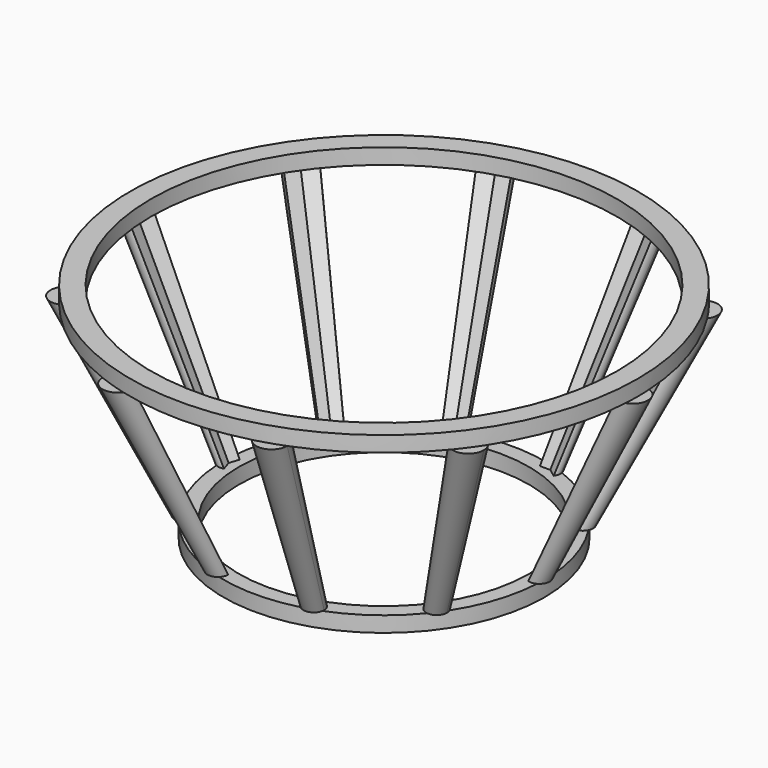
from build123d import *

# Parameters (mm, degrees)
F0_R     = 45
F1_DEPTH = 3
F0_R_2   = 49
F3_DEPTH = 3
F5_R     = 28
F6_DEPTH = 3
F5_R_2   = 31
F8_DEPTH = 3


with BuildPart() as f1:
    # F0 (on Top) → F1 (new body)
    with BuildSketch(Plane.XY):
        Polygon((38.83281573, -28.21369211), (48, 0), (38.83281573, 28.21369211), (14.83281573, 45.6507127822), (-14.83281573, 45.6507127822), (-38.83281573, 28.21369211), (-48, 0), (-38.83281573, -28.21369211), (-14.83281573, -45.6507127822), (14.83281573, -45.6507127822), align=None)
        Circle(F0_R, mode=Mode.SUBTRACT)
    extrude(amount=-F1_DEPTH)

    # F0 (on Top) → F3 (join)
    with BuildSketch(Plane.XY):
        Circle(F0_R_2)
        Polygon((38.83281573, 28.21369211), (48, 0), (38.83281573, -28.21369211), (14.83281573, -45.6507127822), (-14.83281573, -45.6507127822), (-38.83281573, -28.21369211), (-48, 0), (-38.83281573, 28.21369211), (-14.83281573, 45.6507127822), (14.83281573, 45.6507127822), align=None, mode=Mode.SUBTRACT)
    extrude(amount=-F3_DEPTH)



with BuildPart() as f6:
    # F5 (on offset) → F6 (new body)
    with BuildSketch(Plane.XY.offset(-40)):
        Polygon((24.2705098312, -17.6335575688), (30, 0), (24.2705098312, 17.6335575688), (9.2705098312, 28.5316954889), (-9.2705098312, 28.5316954889), (-24.2705098312, 17.6335575688), (-30, 0), (-24.2705098312, -17.6335575688), (-9.2705098312, -28.5316954889), (9.2705098312, -28.5316954889), align=None)
        Circle(F5_R, mode=Mode.SUBTRACT)
    extrude(amount=-F6_DEPTH)

    # F5 (on offset) → F8 (join)
    with BuildSketch(Plane.XY.offset(-40)):
        Circle(F5_R_2)
        Polygon((24.2705098312, 17.6335575688), (30, 0), (24.2705098312, -17.6335575688), (9.2705098312, -28.5316954889), (-9.2705098312, -28.5316954889), (-24.2705098312, -17.6335575688), (-30, 0), (-24.2705098312, 17.6335575688), (-9.2705098312, 28.5316954889), (9.2705098312, 28.5316954889), align=None, mode=Mode.SUBTRACT)
    extrude(amount=-F8_DEPTH)


with BuildPart() as f1_1:
    add(f1.part)

    add(f6.part)  # F9 merges F6
    # F2 (on face) → F9 section 0
    with BuildSketch(Plane(origin=(0, 0, -3), x_dir=(1, 0, 0), z_dir=(0, 0, -1))):
        with BuildLine():
            ThreePointArc((-47.0729490169, 2.8531695489), (-51, 0), (-47.0729490169, -2.8531695489))
            Line((-47.0729490169, -2.8531695489), (-48, 0))
            Line((-48, 0), (-47.0729490169, 2.8531695489))
        make_face()
    # F7 (on face) → F9 section 1
    with BuildSketch(Plane.XY.offset(-40)):
        with BuildLine():
            ThreePointArc((-29.3819660113, 1.9021130326), (-32, 0), (-29.3819660113, -1.9021130326))
            Line((-29.3819660113, -1.9021130326), (-30, 0))
            Line((-30, 0), (-29.3819660113, 1.9021130326))
        make_face()
    loft()

    # F7 (on face) → F10 section 0
    with BuildSketch(Plane.XY.offset(-40)):
        with BuildLine():
            ThreePointArc((-24.88854382, -15.7314445362), (-25.88854382, -18.8091280734), (-22.6524758425, -18.8091280734))
            Line((-22.6524758425, -18.8091280734), (-24.2705098312, -17.6335575688))
            Line((-24.2705098312, -17.6335575688), (-24.88854382, -15.7314445362))
        make_face()
    # F2 (on face) → F10 section 1
    with BuildSketch(Plane(origin=(0, 0, -3), x_dir=(1, 0, 0), z_dir=(0, 0, -1))):
        with BuildLine():
            ThreePointArc((-36.4057647469, 29.9770478669), (-41.2598667131, 29.9770478669), (-39.7598667131, 25.3605225612))
            Line((-39.7598667131, 25.3605225612), (-38.83281573, 28.21369211))
            Line((-38.83281573, 28.21369211), (-36.4057647469, 29.9770478669))
        make_face()
    loft()

    # F2 (on face) → F11 section 0
    with BuildSketch(Plane(origin=(0, 0, -3), x_dir=(1, 0, 0), z_dir=(0, 0, -1))):
        with BuildLine():
            ThreePointArc((-11.83281573, 45.6507127822), (-15.7598667131, 48.5038823311), (-17.2598667131, 43.8873570253))
            Line((-17.2598667131, 43.8873570253), (-14.83281573, 45.6507127822))
            Line((-14.83281573, 45.6507127822), (-11.83281573, 45.6507127822))
        make_face()
    # F7 (on face) → F11 section 1
    with BuildSketch(Plane.XY.offset(-40)):
        with BuildLine():
            Line((-9.2705098312, -28.5316954889), (-10.88854382, -27.3561249843))
            ThreePointArc((-10.88854382, -27.3561249843), (-9.88854382, -30.4338085214), (-7.2705098312, -28.5316954889))
            Line((-7.2705098312, -28.5316954889), (-9.2705098312, -28.5316954889))
        make_face()
    loft()

    # F7 (on face) → F12 section 0
    with BuildSketch(Plane.XY.offset(-40)):
        with BuildLine():
            Line((9.2705098312, -28.5316954889), (7.2705098312, -28.5316954889))
            ThreePointArc((7.2705098312, -28.5316954889), (9.2705098312, -30.5316954889), (11.2705098312, -28.5316954889))
            ThreePointArc((11.2705098312, -28.5316954889), (11.1726228638, -27.9136615001), (10.88854382, -27.3561249843))
            Line((10.88854382, -27.3561249843), (9.2705098312, -28.5316954889))
        make_face()
    # F2 (on face) → F12 section 1
    with BuildSketch(Plane(origin=(0, 0, -3), x_dir=(1, 0, 0), z_dir=(0, 0, -1))):
        with BuildLine():
            ThreePointArc((17.83281573, 45.6507127822), (14.83281573, 48.6507127822), (11.83281573, 45.6507127822))
            Line((11.83281573, 45.6507127822), (14.83281573, 45.6507127822))
            Line((14.83281573, 45.6507127822), (17.2598667131, 43.8873570253))
            ThreePointArc((17.2598667131, 43.8873570253), (17.6859852789, 44.723661799), (17.83281573, 45.6507127822))
        make_face()
    loft()

    # F2 (on face) → F13 section 0
    with BuildSketch(Plane(origin=(0, 0, -3), x_dir=(1, 0, 0), z_dir=(0, 0, -1))):
        with BuildLine():
            ThreePointArc((41.83281573, 28.21369211), (39.7598667131, 31.0668616589), (36.4057647469, 29.9770478669))
            Line((36.4057647469, 29.9770478669), (38.83281573, 28.21369211))
            Line((38.83281573, 28.21369211), (39.7598667131, 25.3605225612))
            ThreePointArc((39.7598667131, 25.3605225612), (41.2598667131, 26.4503363532), (41.83281573, 28.21369211))
        make_face()
    # F7 (on face) → F13 section 1
    with BuildSketch(Plane.XY.offset(-40)):
        with BuildLine():
            Line((24.2705098312, -17.6335575688), (22.6524758425, -18.8091280734))
            ThreePointArc((22.6524758425, -18.8091280734), (24.88854382, -19.5356706014), (26.2705098312, -17.6335575688))
            ThreePointArc((26.2705098312, -17.6335575688), (25.88854382, -16.4579870642), (24.88854382, -15.7314445362))
            Line((24.88854382, -15.7314445362), (24.2705098312, -17.6335575688))
        make_face()
    loft()

    # F7 (on face) → F14 section 0
    with BuildSketch(Plane.XY.offset(-40)):
        with BuildLine():
            Line((30, 0), (29.3819660113, -1.9021130326))
            ThreePointArc((29.3819660113, -1.9021130326), (31.1755705046, -1.6180339887), (32, 0))
            ThreePointArc((32, 0), (31.1755705046, 1.6180339887), (29.3819660113, 1.9021130326))
            Line((29.3819660113, 1.9021130326), (30, 0))
        make_face()
    # F2 (on face) → F14 section 1
    with BuildSketch(Plane(origin=(0, 0, -3), x_dir=(1, 0, 0), z_dir=(0, 0, -1))):
        with BuildLine():
            Line((48, 0), (47.0729490169, -2.8531695489))
            ThreePointArc((47.0729490169, -2.8531695489), (49.7633557569, -2.4270509831), (51, 0))
            ThreePointArc((51, 0), (49.7633557569, 2.4270509831), (47.0729490169, 2.8531695489))
            Line((47.0729490169, 2.8531695489), (48, 0))
        make_face()
    loft()

    # F2 (on face) → F15 section 0
    with BuildSketch(Plane(origin=(0, 0, -3), x_dir=(1, 0, 0), z_dir=(0, 0, -1))):
        with BuildLine():
            Line((38.83281573, -28.21369211), (36.4057647469, -29.9770478669))
            ThreePointArc((36.4057647469, -29.9770478669), (39.7598667131, -31.0668616589), (41.83281573, -28.21369211))
            ThreePointArc((41.83281573, -28.21369211), (41.2598667131, -26.4503363532), (39.7598667131, -25.3605225612))
            Line((39.7598667131, -25.3605225612), (38.83281573, -28.21369211))
        make_face()
    # F7 (on face) → F15 section 1
    with BuildSketch(Plane.XY.offset(-40)):
        with BuildLine():
            ThreePointArc((26.2705098312, 17.6335575688), (24.88854382, 19.5356706014), (22.6524758425, 18.8091280734))
            Line((22.6524758425, 18.8091280734), (24.2705098312, 17.6335575688))
            Line((24.2705098312, 17.6335575688), (24.88854382, 15.7314445362))
            ThreePointArc((24.88854382, 15.7314445362), (25.88854382, 16.4579870642), (26.2705098312, 17.6335575688))
        make_face()
    loft()

    # F7 (on face) → F16 section 0
    with BuildSketch(Plane.XY.offset(-40)):
        with BuildLine():
            ThreePointArc((11.2705098312, 28.5316954889), (9.2705098312, 30.5316954889), (7.2705098312, 28.5316954889))
            Line((7.2705098312, 28.5316954889), (9.2705098312, 28.5316954889))
            Line((9.2705098312, 28.5316954889), (10.88854382, 27.3561249843))
            ThreePointArc((10.88854382, 27.3561249843), (11.1726228638, 27.9136615001), (11.2705098312, 28.5316954889))
        make_face()
    # F2 (on face) → F16 section 1
    with BuildSketch(Plane(origin=(0, 0, -3), x_dir=(1, 0, 0), z_dir=(0, 0, -1))):
        with BuildLine():
            Line((14.83281573, -45.6507127822), (11.83281573, -45.6507127822))
            ThreePointArc((11.83281573, -45.6507127822), (14.83281573, -48.6507127822), (17.83281573, -45.6507127822))
            ThreePointArc((17.83281573, -45.6507127822), (17.6859852789, -44.723661799), (17.2598667131, -43.8873570253))
            Line((17.2598667131, -43.8873570253), (14.83281573, -45.6507127822))
        make_face()
    loft()

    # F2 (on face) → F17 section 0
    with BuildSketch(Plane(origin=(0, 0, -3), x_dir=(1, 0, 0), z_dir=(0, 0, -1))):
        with BuildLine():
            Line((-14.83281573, -45.6507127822), (-17.2598667131, -43.8873570253))
            ThreePointArc((-17.2598667131, -43.8873570253), (-15.7598667131, -48.5038823311), (-11.83281573, -45.6507127822))
            Line((-11.83281573, -45.6507127822), (-14.83281573, -45.6507127822))
        make_face()
    # F7 (on face) → F17 section 1
    with BuildSketch(Plane.XY.offset(-40)):
        with BuildLine():
            ThreePointArc((-7.2705098312, 28.5316954889), (-9.88854382, 30.4338085214), (-10.88854382, 27.3561249843))
            Line((-10.88854382, 27.3561249843), (-9.2705098312, 28.5316954889))
            Line((-9.2705098312, 28.5316954889), (-7.2705098312, 28.5316954889))
        make_face()
    loft()

    # F7 (on face) → F18 section 0
    with BuildSketch(Plane.XY.offset(-40)):
        with BuildLine():
            ThreePointArc((-22.6524758425, 18.8091280734), (-25.88854382, 18.8091280734), (-24.88854382, 15.7314445362))
            Line((-24.88854382, 15.7314445362), (-24.2705098312, 17.6335575688))
            Line((-24.2705098312, 17.6335575688), (-22.6524758425, 18.8091280734))
        make_face()
    # F2 (on face) → F18 section 1
    with BuildSketch(Plane(origin=(0, 0, -3), x_dir=(1, 0, 0), z_dir=(0, 0, -1))):
        with BuildLine():
            ThreePointArc((-39.7598667131, -25.3605225612), (-41.2598667131, -29.9770478669), (-36.4057647469, -29.9770478669))
            Line((-36.4057647469, -29.9770478669), (-38.83281573, -28.21369211))
            Line((-38.83281573, -28.21369211), (-39.7598667131, -25.3605225612))
        make_face()
    loft()


solid = f1_1.part
